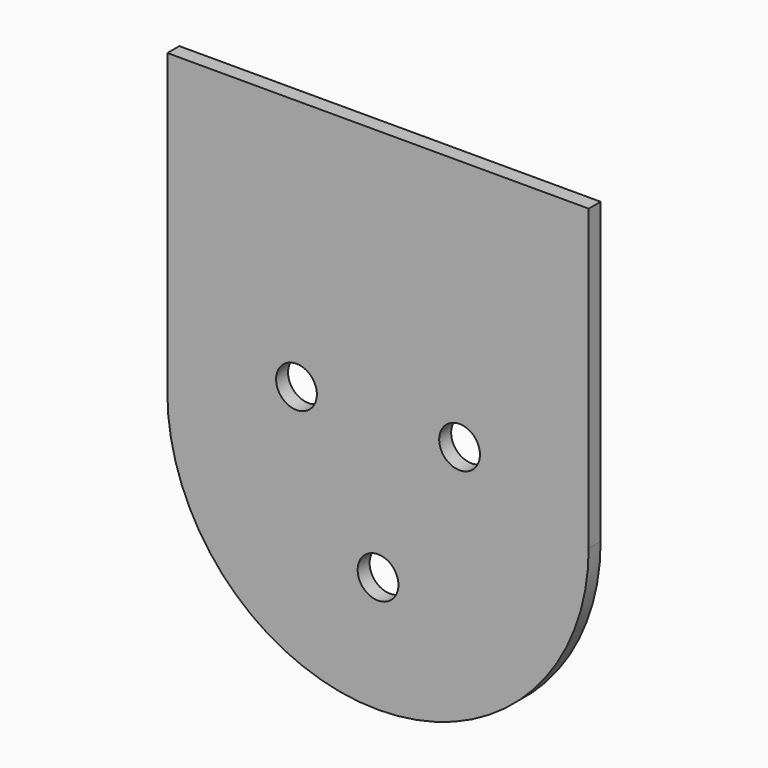
from build123d import *

# Parameters (mm, degrees)
F0_R     = 3
F1_DEPTH = 2.2


with BuildPart() as f1:
    # F0 (on Front) → F1 (new body)
    with BuildSketch(Plane.XZ):
        with BuildLine():
            ThreePointArc((-31, 0), (-21.92031, -21.92031), (0, -31))
            ThreePointArc((0, -31), (21.92031, -21.92031), (31, 0))
            Line((31, 0), (31, 44))
            Line((31, 44), (-31, 44))
            Line((-31, 44), (-31, 0))
        make_face()
        with Locations((0, -13.856406)):
            Circle(F0_R, mode=Mode.SUBTRACT)
        with BuildLine():
            ThreePointArc((-14.598076, 8.428203), (-10.5, 9.526279), (-9.401924, 5.428203))
            ThreePointArc((-9.401924, 5.428203), (-13.5, 4.330127), (-14.598076, 8.428203))
        make_face(mode=Mode.SUBTRACT)
        with BuildLine():
            ThreePointArc((14.598076, 8.428203), (13.5, 4.330127), (9.401924, 5.428203))
            ThreePointArc((9.401924, 5.428203), (10.5, 9.526279), (14.598076, 8.428203))
        make_face(mode=Mode.SUBTRACT)
    extrude(amount=F1_DEPTH)


solid = f1.part
